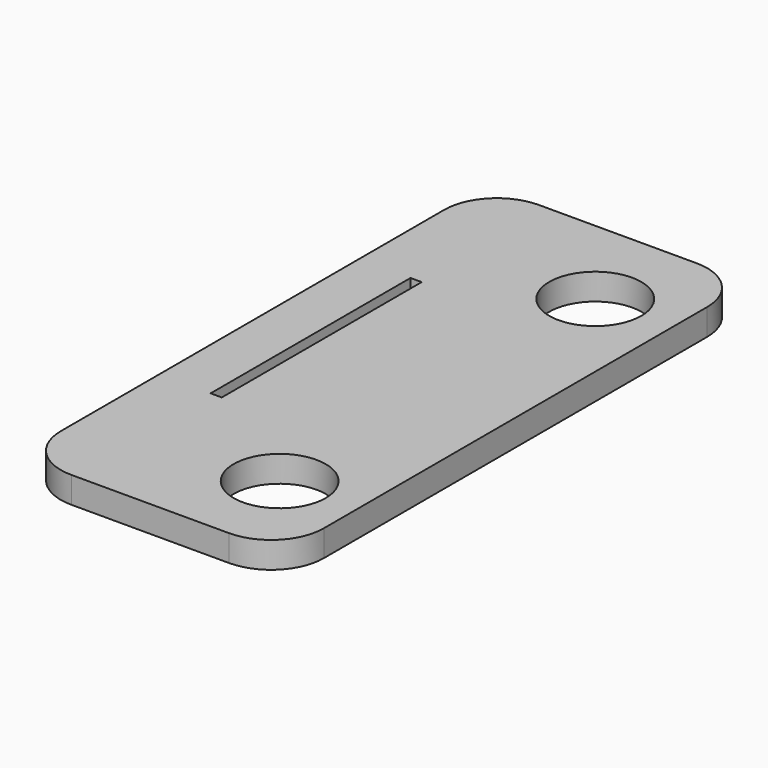
from build123d import *

# Parameters (mm, degrees)
SKETCH001_R = 3.5
SKETCH001_W = 0.85
SKETCH001_H = 19
PAD_DEPTH   = 2


with BuildPart() as part:
    # Sketch001 → Pad (new body)
    with BuildSketch(Plane.XY):
        with BuildLine():
            Line((0, -4), (0, -40.45))
            ThreePointArc((0, -40.45), (1.171573, -43.278427), (4, -44.45))
            Line((4, -44.45), (16, -44.45))
            ThreePointArc((16, -44.45), (18.828427, -43.278427), (20, -40.45))
            Line((20, -40.45), (20, -4))
            ThreePointArc((20, -4), (18.828427, -1.171573), (16, 0))
            Line((16, 0), (4, 0))
            ThreePointArc((4, 0), (1.171573, -1.171573), (0, -4))
        make_face()
        with Locations((14.159135, -37.34189)):
            Circle(SKETCH001_R, mode=Mode.SUBTRACT)
        with Locations((14.159135, -7.34189)):
            Circle(SKETCH001_R, mode=Mode.SUBTRACT)
        with Locations((4.334727, -21.593039)):
            Rectangle(SKETCH001_W, SKETCH001_H, mode=Mode.SUBTRACT)
    extrude(amount=PAD_DEPTH)


solid = part.part
